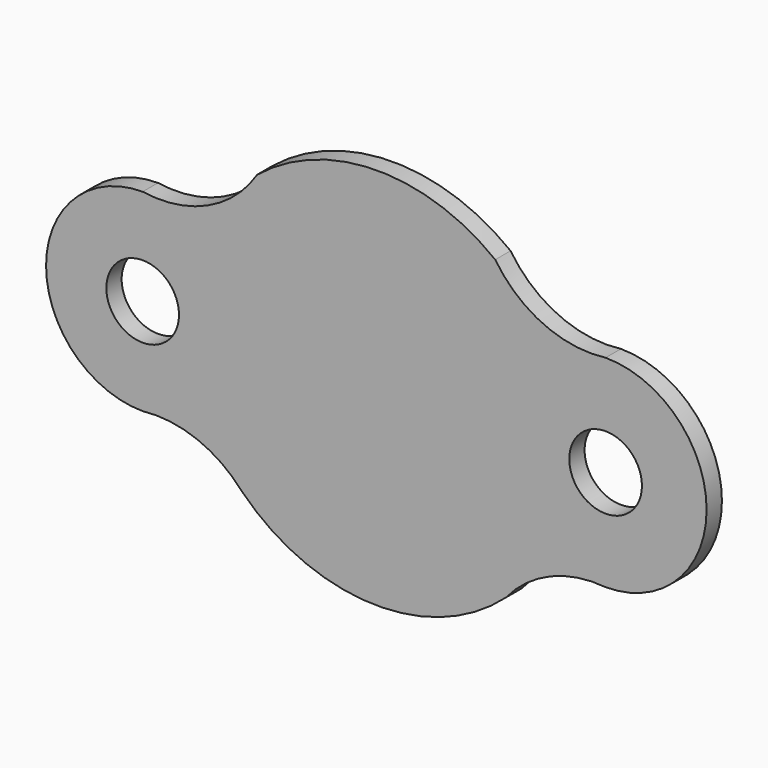
from build123d import *

# Parameters (mm, degrees)
F0_R     = 44.45
F2_DEPTH = 6.35
F1_R     = 12.0390740619


with BuildPart() as f2:
    # F0 (on Front) → F2 (new body)
    with BuildSketch(Plane.XZ):
        Circle(F0_R)
    extrude(amount=F2_DEPTH)


with BuildPart() as f2b:
    # F1 (on Front) → F2, piece 2 (new body)
    with BuildSketch(Plane.XZ):
        with BuildLine():
            ThreePointArc((75.4746268347, 33.4723664156), (54.8008501345, 36.612828573), (38.8982994904, 50.1913567933))
            ThreePointArc((38.8982994904, 50.1913567933), (-0.7205293928, 63.4959119739), (-40.0272442255, 49.2957373381))
            ThreePointArc((-40.0272442255, 49.2957373381), (-56.418205053, 35.0050977481), (-77.9566796609, 32.0084182016))
            ThreePointArc((-77.9566796609, 32.0084182016), (-109.9650978625, 0), (-77.9566796609, -32.0084182016))
            ThreePointArc((-77.9566796609, -32.0084182016), (-59.9304514247, -34.343511035), (-45.0375494063, -44.7645969877))
            ThreePointArc((-45.0375494063, -44.7645969877), (-1.7667587777, -63.4754170008), (42.4778166696, -47.2004776563))
            ThreePointArc((42.4778166696, -47.2004776563), (57.2667213903, -36.2274766808), (75.4746268347, -33.4723664156))
            ThreePointArc((75.4746268347, -33.4723664156), (108.9469932503, 0), (75.4746268347, 33.4723664156))
        make_face()
        with Locations((-77.9566796609, 0)):
            Circle(F1_R, mode=Mode.SUBTRACT)
        with Locations((75.4746268347, 0)):
            Circle(F1_R, mode=Mode.SUBTRACT)
    extrude(amount=F2_DEPTH)


solid = Compound([f2.part, f2b.part])
